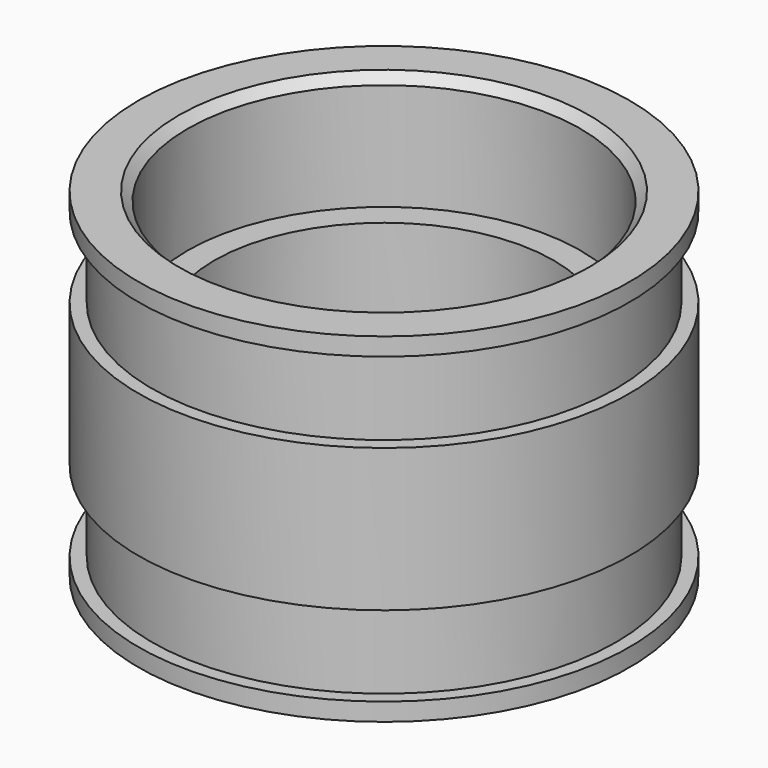
from build123d import *

# Parameters (mm, degrees)
F2_SIZE = 1


with BuildPart() as f1:
    # F0 (on Front) → F1 (revolve)
    with BuildSketch(Plane.XZ):
        Polygon((-27.5, 0), (-22, 0), (-22, 13), (-19, 13), (-19, 25), (-22, 25), (-22, 38), (-27.5, 38), (-27.5, 36), (-26, 36), (-26, 27), (-27.5, 27), (-27.5, 11), (-26, 11), (-26, 2), (-27.5, 2), align=None)
    revolve(axis=Axis((0, 0, 48.059855), (0, 0, 1)))

    # F2
    f2_edges = [f1.edges().sort_by_distance(p)[0] for p in [
        (22, 0, 38),
        (22, 0, 0),
    ]]
    chamfer(f2_edges, length=F2_SIZE)


solid = f1.part
